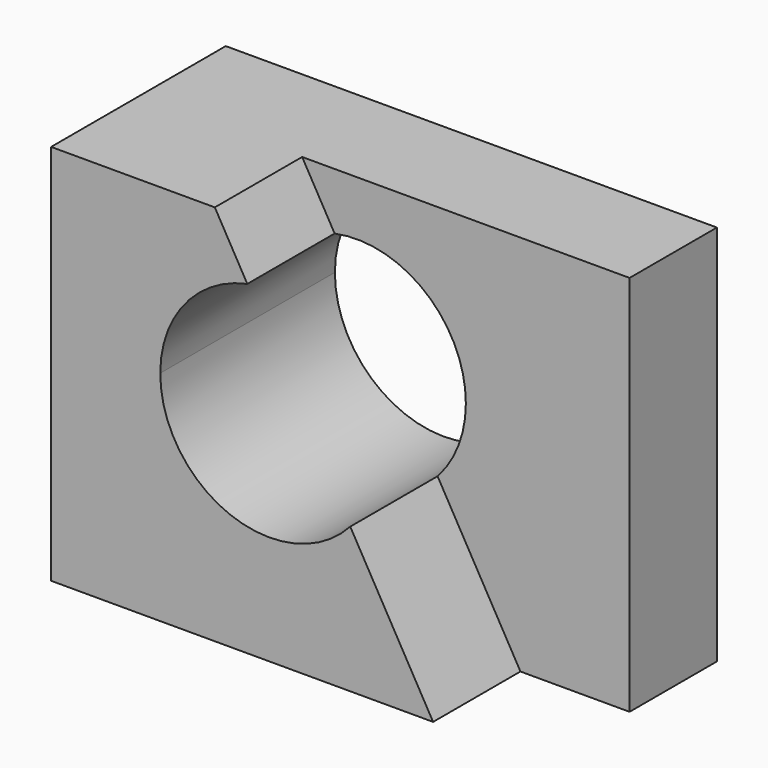
from build123d import *

# Parameters (mm, degrees)
F1_DEPTH = 12.7
F2_DEPTH = 25.4
F4_DEPTH = 50.8


with BuildPart() as f1:
    # F0 (on Front) → F1 (new body)
    with BuildSketch(Plane.XZ):
        Polygon((19.05, 44.45), (44.45, 0), (57.15, 0), (57.15, 44.45), align=None)
    extrude(amount=F1_DEPTH)

    # F0 (on Front) → F2 (join)
    with BuildSketch(Plane.XZ):
        Polygon((0, 44.45), (0, 0), (44.45, 0), (19.05, 44.45), align=None)
    extrude(amount=F2_DEPTH)

    # F3 (on face) → F4 (cut)
    with BuildSketch(Plane.XZ.offset(25.4)):
        with BuildLine():
            Line((22.828852, 37.837009), (34.80961, 16.870683))
            ThreePointArc((34.80961, 16.870683), (37.248883, 20.829007), (38.1, 25.4))
            ThreePointArc((38.1, 25.4), (33.419863, 35.247426), (22.828852, 37.837009))
        make_face()
        with BuildLine():
            ThreePointArc((22.828852, 37.837009), (15.552574, 33.419863), (12.7, 25.4))
            ThreePointArc((12.7, 25.4), (20.829007, 13.551117), (34.80961, 16.870683))
            Line((34.80961, 16.870683), (22.828852, 37.837009))
        make_face()
    extrude(amount=-F4_DEPTH, mode=Mode.SUBTRACT)


solid = f1.part
